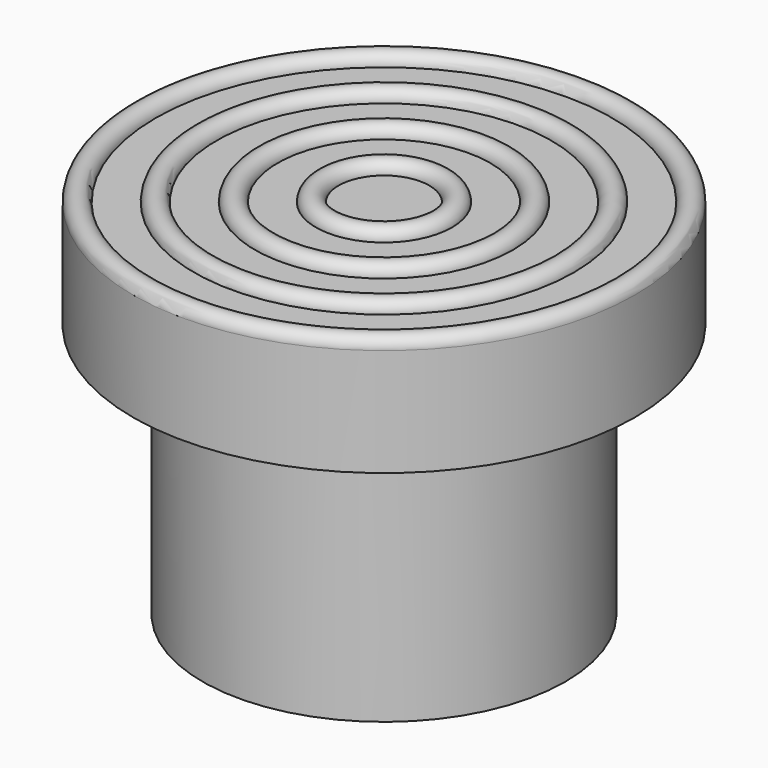
from build123d import *

# Parameters (mm, degrees)
F1_R     = 17.7
F2_DEPTH = 7.6
F5_R     = 12.8
F5_R_2   = 11.2
F6_DEPTH = 18


with BuildPart() as f2:
    # F1 (on Top) → F2 (new body)
    with BuildSketch(Plane.XY):
        Circle(F1_R)
    extrude(amount=F2_DEPTH)

    # F3 (on Front) → F4 (revolve)
    with BuildSketch(Plane.XZ):
        with BuildLine():
            Line((3.2, 7.6), (4.8, 7.6))
            ThreePointArc((4.8, 7.6), (4, 8.4), (3.2, 7.6))
        make_face()
        with BuildLine():
            ThreePointArc((9.1, 7.6), (8.3, 8.4), (7.5, 7.6))
            Line((7.5, 7.6), (9.1, 7.6))
        make_face()
        with BuildLine():
            ThreePointArc((13.4, 7.6), (12.6, 8.4), (11.8, 7.6))
            Line((11.8, 7.6), (13.4, 7.6))
        make_face()
        with BuildLine():
            ThreePointArc((17.7, 7.6), (16.9, 8.4), (16.1, 7.6))
            Line((16.1, 7.6), (17.7, 7.6))
        make_face()
    revolve(axis=Axis((0, 0, 0.0023786849), (0, 0, -1)))

    # F5 (on face) → F6 (join)
    with BuildSketch(Plane(origin=(0, 0, 0), x_dir=(1, 0, 0), z_dir=(0, 0, -1))):
        Circle(F5_R)
        Circle(F5_R_2, mode=Mode.SUBTRACT)
    extrude(amount=F6_DEPTH)


solid = f2.part
